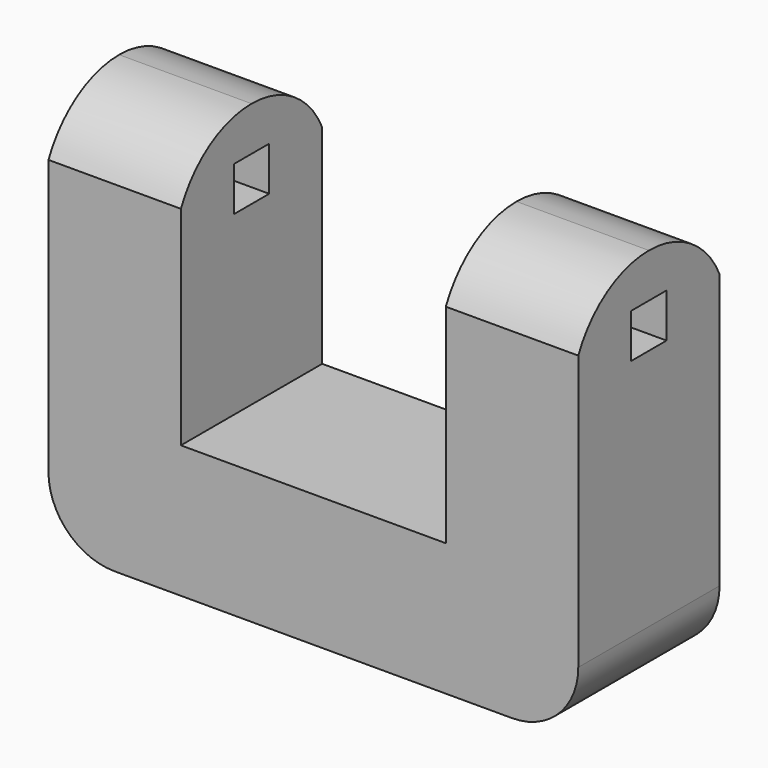
from build123d import *

# Parameters (mm, degrees)
F1_DEPTH = 25.4
F3_W     = 12.7
F3_H     = 12.7
F4_DEPTH = 152.401


with BuildPart() as f1:
    # F0 (on Front) → F1 (new body, symmetric)
    with BuildSketch(Plane.XZ):
        with BuildLine():
            Line((0, 38.1), (0, 0))
            Line((0, 0), (38.1, 0))
            Line((38.1, 0), (57.15, 0))
            ThreePointArc((57.15, 0), (70.620384, 5.579616), (76.2, 19.05))
            Line((76.2, 19.05), (76.2, 38.1))
            Line((76.2, 38.1), (76.2, 114.3))
            Line((76.2, 114.3), (38.1, 114.3))
            Line((38.1, 114.3), (38.1, 38.1))
            Line((38.1, 38.1), (0, 38.1))
        make_face()
    extrude(amount=F1_DEPTH, both=True)

    # F2: F1 across plane


with BuildPart() as f1_1:
    add(f1.part)
    add(f1.part.mirror(Plane.YZ))

    # F3 (on face) → F4 (cut, through all)
    with BuildSketch(Plane(origin=(-76.2, 0, 0), x_dir=(0, -1, 0), z_dir=(-1, 0, 0))):
        with BuildLine():
            ThreePointArc((-25.4, 97.999742), (-15.090215, 109.874442), (0, 114.3))
            Line((0, 114.3), (-25.4, 114.3))
            Line((-25.4, 114.3), (-25.4, 97.999742))
        make_face()
        with BuildLine():
            ThreePointArc((0, 114.3), (15.090215, 109.874442), (25.4, 97.999742))
            Line((25.4, 97.999742), (25.4, 114.3))
            Line((25.4, 114.3), (0, 114.3))
        make_face()
        with Locations((0, 95.25)):
            Rectangle(F3_W, F3_H)
    extrude(amount=-F4_DEPTH, mode=Mode.SUBTRACT)


solid = f1_1.part
